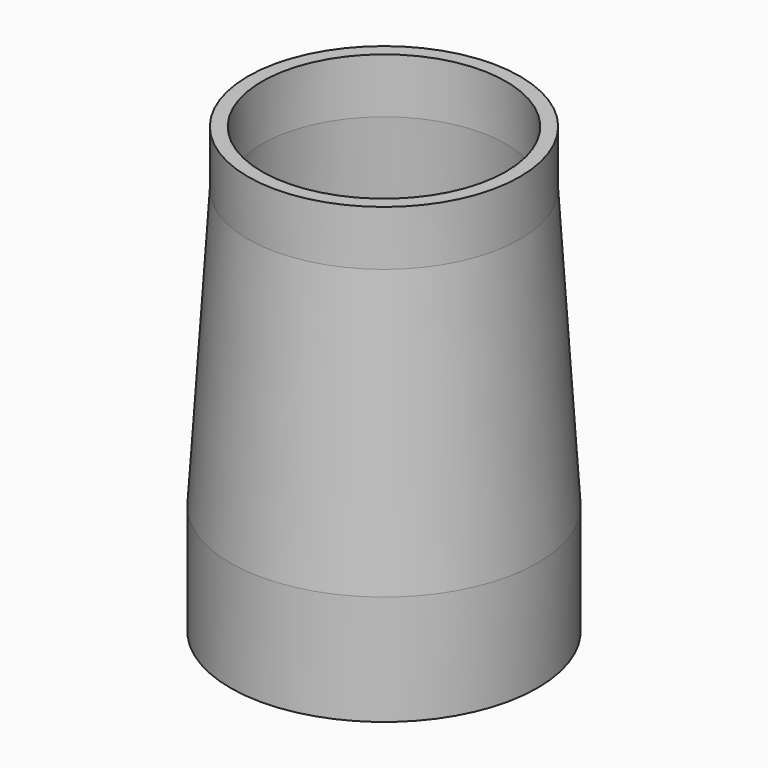
from build123d import *

# Parameters (mm, degrees)
F3_R      = 12.3698
F4_R      = 13.97
F1_R      = 11.1
F2_R      = 12.827
F7_DEPTH  = 5
F8_DEPTH  = 25.4
F9_DEPTH  = 10
F10_DEPTH = 25.4


with BuildPart() as f5:
    # F3 (on offset) → F5 section 0
    with BuildSketch(Plane.XY.offset(25.4)):
        Circle(F3_R)
    # F4 (on Top) → F5 section 1
    with BuildSketch(Plane.XY):
        Circle(F4_R)
    loft()

    # F1 (on offset) → F6 section 0
    with BuildSketch(Plane.XY.offset(25.4)):
        Circle(F1_R)
    # F2 (on Top) → F6 section 1
    with BuildSketch(Plane.XY):
        Circle(F2_R)
    loft(mode=Mode.SUBTRACT)

    # F3 (on offset) → F7 (join)
    with BuildSketch(Plane.XY.offset(25.4)):
        Circle(F3_R)
    extrude(amount=F7_DEPTH)

    # F1 (on offset) → F8 (cut)
    with BuildSketch(Plane.XY.offset(25.4)):
        Circle(F1_R)
    extrude(amount=F8_DEPTH, mode=Mode.SUBTRACT)

    # F4 (on Top) → F9 (join)
    with BuildSketch(Plane.XY):
        Circle(F4_R)
    extrude(amount=-F9_DEPTH)

    # F2 (on Top) → F10 (cut)
    with BuildSketch(Plane.XY):
        Circle(F2_R)
    extrude(amount=-F10_DEPTH, mode=Mode.SUBTRACT)


solid = f5.part
